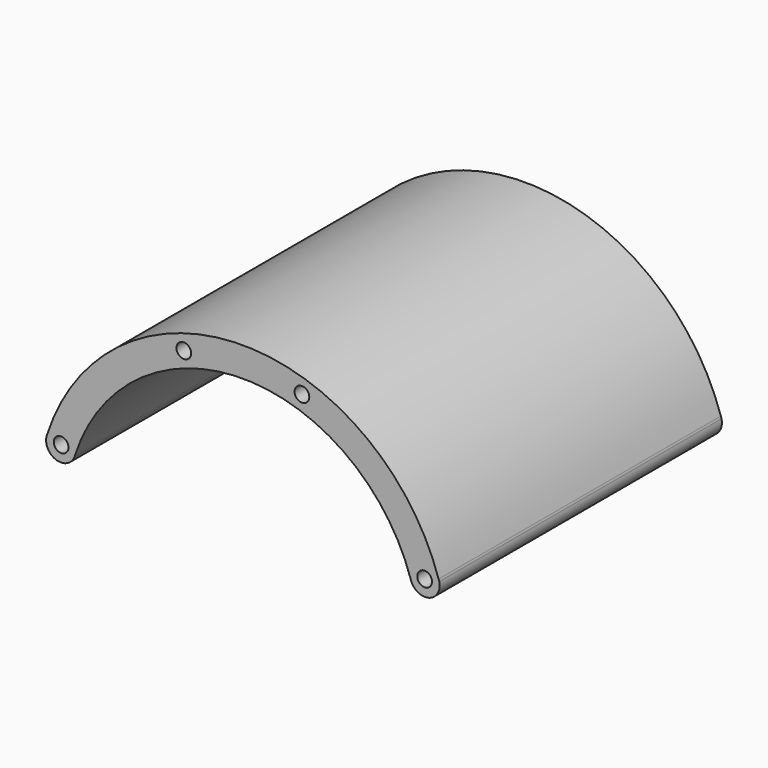
from build123d import *

# Parameters (mm, degrees)
F0_R     = 1.5875
F1_DEPTH = 76.2


with BuildPart() as f1:
    # F0 (on Front) → F1 (new body)
    with BuildSketch(Plane.XZ):
        with BuildLine():
            ThreePointArc((36.357702, 11.389799), (40.273671, 9.510209), (42.417319, 13.288099))
            ThreePointArc((42.417319, 13.288099), (42.346482, 13.512141), (42.274462, 13.735805))
            ThreePointArc((42.274462, 13.735805), (0, 44.45), (-42.274462, 13.735805))
            ThreePointArc((-42.274462, 13.735805), (-42.346482, 13.512141), (-42.417319, 13.288099))
            ThreePointArc((-42.417319, 13.288099), (-40.273671, 9.510209), (-36.357702, 11.389799))
            ThreePointArc((-36.357702, 11.389799), (-36.296985, 11.581835), (-36.235253, 11.773547))
            ThreePointArc((-36.235253, 11.773547), (0, 38.1), (36.235253, 11.773547))
            ThreePointArc((36.235253, 11.773547), (36.296985, 11.581835), (36.357702, 11.389799))
        make_face()
        with Locations((-39.254858, 12.754676)):
            Circle(F0_R, mode=Mode.SUBTRACT)
        with Locations((39.254858, 12.754676)):
            Circle(F0_R, mode=Mode.SUBTRACT)
        with Locations((-12.754676, 39.254858)):
            Circle(F0_R, mode=Mode.SUBTRACT)
        with Locations((12.754676, 39.254858)):
            Circle(F0_R, mode=Mode.SUBTRACT)
        with BuildLine():
            ThreePointArc((42.274462, 13.735805), (42.346482, 13.512141), (42.417319, 13.288099))
            ThreePointArc((42.417319, 13.288099), (42.354166, 13.514593), (42.274462, 13.735805))
        make_face()
        with BuildLine():
            ThreePointArc((36.235253, 11.773547), (36.2904, 11.579734), (36.357702, 11.389799))
            ThreePointArc((36.357702, 11.389799), (36.296985, 11.581835), (36.235253, 11.773547))
        make_face()
        with BuildLine():
            ThreePointArc((-42.417319, 13.288099), (-42.346482, 13.512141), (-42.274462, 13.735805))
            ThreePointArc((-42.274462, 13.735805), (-42.354166, 13.514593), (-42.417319, 13.288099))
        make_face()
        with BuildLine():
            ThreePointArc((-36.357702, 11.389799), (-36.2904, 11.579734), (-36.235253, 11.773547))
            ThreePointArc((-36.235253, 11.773547), (-36.296985, 11.581835), (-36.357702, 11.389799))
        make_face()
    extrude(amount=F1_DEPTH)


solid = f1.part
